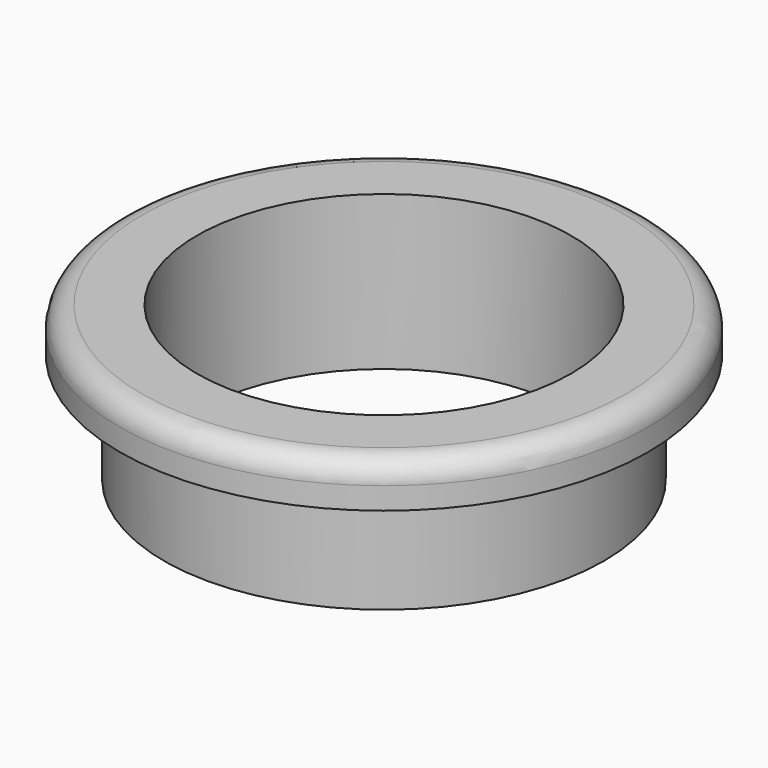
from build123d import *

# Parameters (mm, degrees)
F0_R     = 100
F0_R_2   = 85
F1_DEPTH = 50
F0_R_3   = 120
F2_DEPTH = 20
F3_R     = 10


with BuildPart() as f1:
    # F0 (on Top) → F1 (new body)
    with BuildSketch(Plane.XY):
        Circle(F0_R)
        Circle(F0_R_2, mode=Mode.SUBTRACT)
    extrude(amount=-F1_DEPTH)

    # F0 (on Top) → F2 (join)
    with BuildSketch(Plane.XY):
        Circle(F0_R_3)
        Circle(F0_R, mode=Mode.SUBTRACT)
        Circle(F0_R)
        Circle(F0_R_2, mode=Mode.SUBTRACT)
    extrude(amount=F2_DEPTH)

    # F3
    f3_edges = [f1.edges().sort_by_distance(p)[0] for p in [
        (-120, 0, 20),
    ]]
    fillet(f3_edges, radius=F3_R)


solid = f1.part
